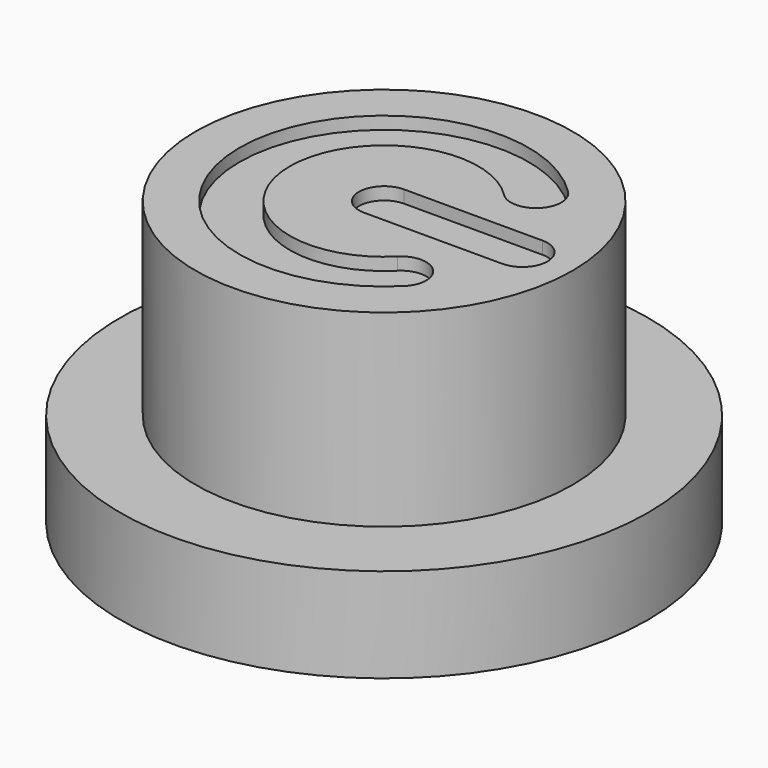
from build123d import *

# Parameters (mm, degrees)
SKETCH_R     = 4.2
PAD006_DEPTH = 1.5
SKETCH012_R  = 3
PAD007_DEPTH = 3
POCKET_DEPTH = 0.2


with BuildPart() as part:
    # Sketch → Pad006 (new body)
    with BuildSketch(Plane.XY.offset(29.2)):
        with Locations((14.8, -53.5)):
            Circle(SKETCH_R)
    extrude(amount=-PAD006_DEPTH)

    # Sketch012 (on Face2 of Pad006) → Pad007 (join)
    with BuildSketch(Plane.XY.offset(29.2)):
        with Locations((14.8, -53.5)):
            Circle(SKETCH012_R)
    extrude(amount=PAD007_DEPTH)

    # Sketch013 (on Face5 of Pad007) → Pocket (cut)
    with BuildSketch(Plane.XY.offset(32.2)):
        with BuildLine():
            ThreePointArc((15.86066, -52.43934), (13.3, -53.5), (15.86066, -54.56066))
            ThreePointArc((16.426344, -55.126347), (16.426345, -54.560662), (15.86066, -54.56066))
            ThreePointArc((16.426348, -51.873657), (12.5, -53.499997), (16.426344, -55.126347))
            ThreePointArc((15.86066, -52.43934), (16.426346, -52.439343), (16.426348, -51.873657))
        make_face()
        with BuildLine():
            ThreePointArc((14.8, -53.1), (14.4, -53.5), (14.8, -53.9))
            Line((14.8, -53.9), (17, -53.9))
            ThreePointArc((17, -53.9), (17.4, -53.5), (17, -53.1))
            Line((14.8, -53.1), (17, -53.1))
        make_face()
    extrude(amount=-POCKET_DEPTH, mode=Mode.SUBTRACT)


solid = part.part
